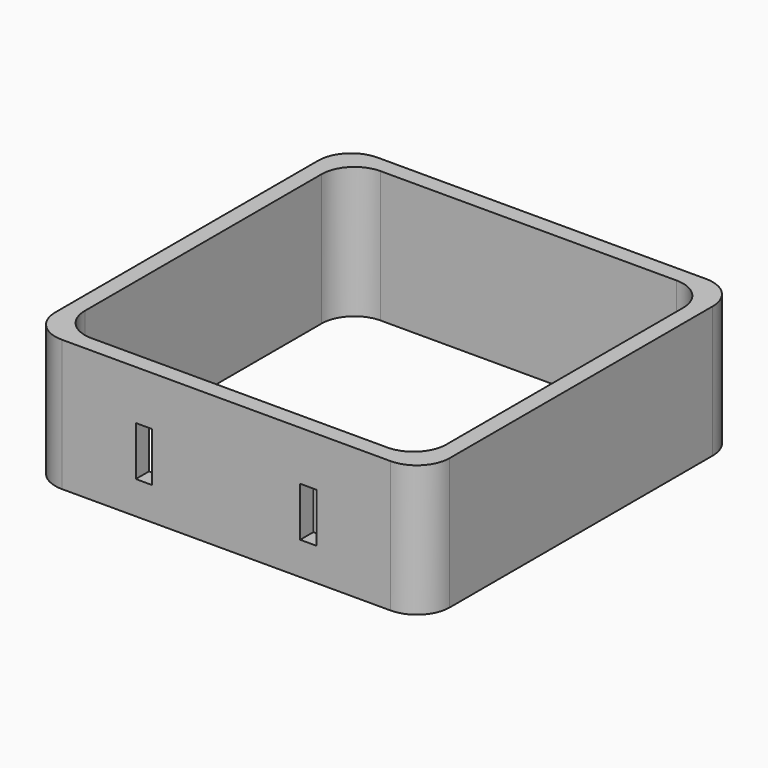
from build123d import *

# Parameters (mm, degrees)
F1_DEPTH = 50.8
F2_W     = 6.35
F2_H     = 19.05
F3_DEPTH = 6.35


with BuildPart() as f1:
    # F0 (on Top) → F1 (new body)
    with BuildSketch(Plane.XY):
        with BuildLine():
            Line((63.5, 76.2), (-63.5, 76.2))
            ThreePointArc((-63.5, 76.2), (-72.480256, 72.480256), (-76.2, 63.5))
            Line((-76.2, 63.5), (-76.2, -63.5))
            ThreePointArc((-76.2, -63.5), (-72.480256, -72.480256), (-63.5, -76.2))
            Line((-63.5, -76.2), (63.5, -76.2))
            ThreePointArc((63.5, -76.2), (72.480256, -72.480256), (76.2, -63.5))
            Line((76.2, -63.5), (76.2, 63.5))
            ThreePointArc((76.2, 63.5), (72.480256, 72.480256), (63.5, 76.2))
        make_face()
        with BuildLine():
            ThreePointArc((-69.85, 57.15), (-66.130256, 66.130256), (-57.15, 69.85))
            Line((-57.15, 69.85), (0, 69.85))
            Line((0, 69.85), (57.15, 69.85))
            ThreePointArc((57.15, 69.85), (66.130256, 66.130256), (69.85, 57.15))
            Line((69.85, 57.15), (69.85, 0))
            Line((69.85, 0), (69.85, -57.15))
            ThreePointArc((69.85, -57.15), (66.130256, -66.130256), (57.15, -69.85))
            Line((57.15, -69.85), (0, -69.85))
            Line((0, -69.85), (-57.15, -69.85))
            ThreePointArc((-57.15, -69.85), (-66.130256, -66.130256), (-69.85, -57.15))
            Line((-69.85, -57.15), (-69.85, 0))
            Line((-69.85, 0), (-69.85, 57.15))
        make_face(mode=Mode.SUBTRACT)
    extrude(amount=-F1_DEPTH)

    # F2 (on face) → F3 (cut)
    with BuildSketch(Plane.XZ.offset(76.2)):
        with Locations((-31.75, -28.575)):
            Rectangle(F2_W, F2_H)
        with Locations((31.75, -28.575)):
            Rectangle(F2_W, F2_H)
    extrude(amount=-F3_DEPTH, mode=Mode.SUBTRACT)


solid = f1.part
